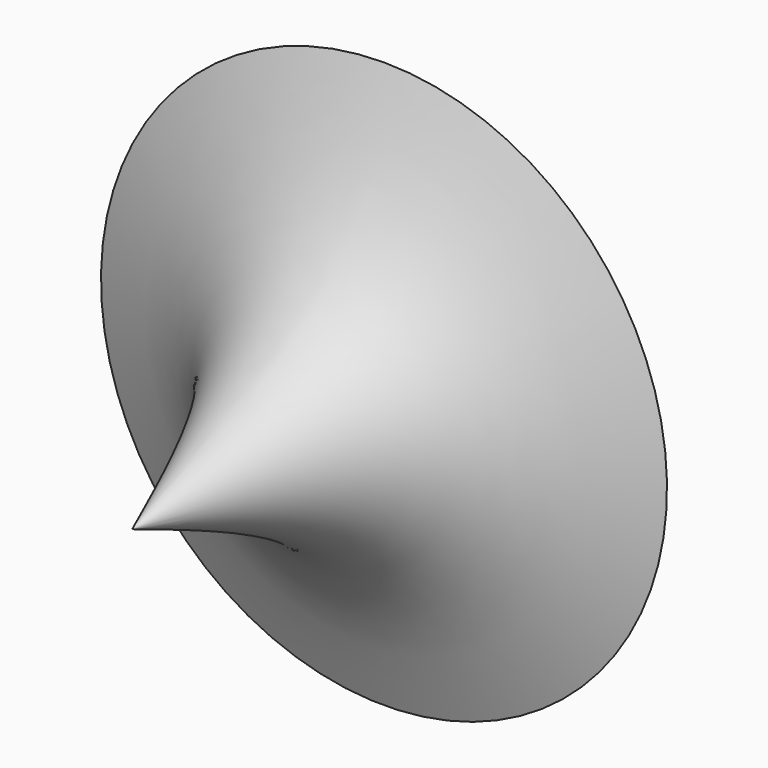
from build123d import *


with BuildPart() as f1:
    # F0 (on Right) → F1 (revolve)
    with BuildSketch(Plane.YZ):
        with BuildLine():
            Line((-57.5370118022, 0), (0, 0))
            Line((0, 0), (0, 51.7211891711))
            add(Edge.make_bspline(
                [(-57.5370118022, 0), (-41.7212844465, 6.2034999711), (-12.4933480803, 17.6677531367), (-3.9297097656, 41.0098794984), (0, 51.7211891711)],
                knots=[0, 0, 0, 0, 0.5411167986, 1, 1, 1, 1], degree=3))
        make_face()
    revolve(axis=Axis((0, -28.7685059011, 0), (0, -1, 0)))


solid = f1.part
